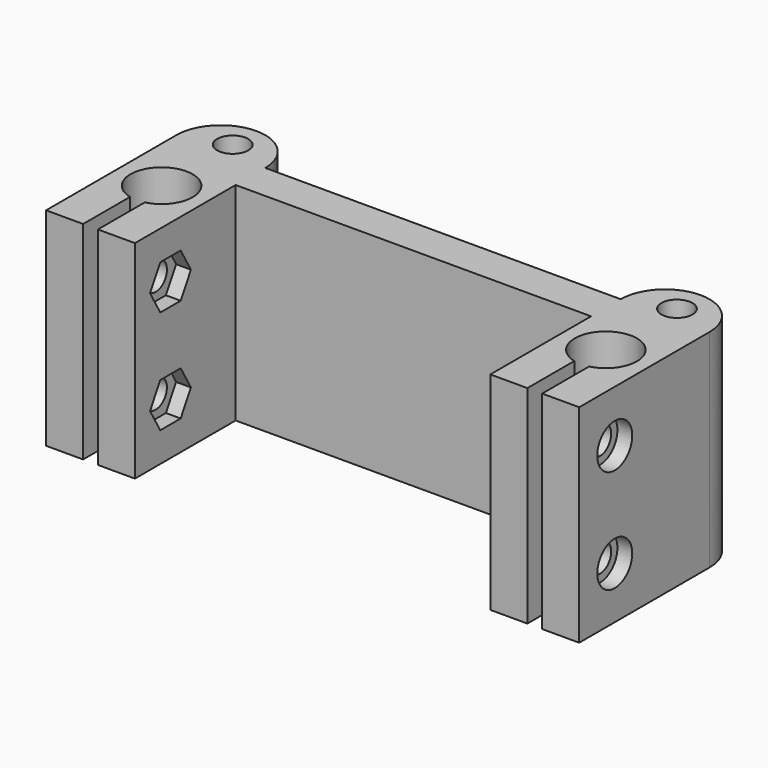
from build123d import *

# Parameters (mm, degrees)
CYLINDER001_R          = 2.1
CYLINDER001_DEPTH      = 30
CYLINDER003_R          = 2.95
CYLINDER003_DEPTH      = 4
CYLINDER002_R          = 1.9
CYLINDER002_DEPTH      = 10
PRISM_DEPTH            = 3
FUSION_ROLL_ANGLE      = -90
FUSION_PITCH_ANGLE     = -60
FUSION_PLACEMENT_ANGLE = 90
CLONE_ROLL_ANGLE       = -3.3e-05
CLONE_PITCH_ANGLE      = -2.6e-05
CLONE_PLACEMENT_ANGLE  = 7e-06
SKETCH001_W            = 2
SKETCH001_H            = 14
PAD001_DEPTH           = 30
CYLINDER_R             = 4.2
CYLINDER_DEPTH         = 30
PAD_DEPTH              = 28


with BuildPart() as top_screw_cut:
    # Cylinder001 → Cylinder001 (new body)
    with BuildSketch(Plane(origin=(-30, 12, -1), x_dir=(1, 0, 0), z_dir=(0, 0, 1))):
        Circle(CYLINDER001_R)
    extrude(amount=CYLINDER001_DEPTH)


with BuildPart() as cylinder001:
    # Cylinder003 → Cylinder003 (new body)
    with BuildSketch(Plane.XY.offset(10)):
        Circle(CYLINDER003_R)
    extrude(amount=CYLINDER003_DEPTH)


with BuildPart() as cylinder:
    # Cylinder002 → Cylinder002 (new body)
    with BuildSketch(Plane.XY):
        Circle(CYLINDER002_R)
    extrude(amount=CYLINDER002_DEPTH)


with BuildPart() as fusion:
    # Prism → Prism (new body)
    with BuildSketch(Plane.XY.offset(-1)):
        Polygon((3.45, 0), (1.725, 2.987788), (-1.725, 2.987788), (-3.45, 0), (-1.725, -2.987788), (1.725, -2.987788), align=None)
    extrude(amount=PRISM_DEPTH)

    # Fusion: union Cylinder001, Cylinder
    add(cylinder001.part)
    add(cylinder.part)


with BuildPart() as fusion_1:
    # Fusion roll: moved
    add(fusion.part.rotate(Axis((0, 0, 0), (1, 0, 0)), FUSION_ROLL_ANGLE))


with BuildPart() as fusion_2:
    # Fusion pitch: moved
    add(fusion_1.part.rotate(Axis((0, 0, 0), (0, 1, 0)), FUSION_PITCH_ANGLE))


with BuildPart() as fusion_3:
    # Fusion placement: moved
    add(fusion_2.part.moved(Location((-24, -6, 7))).rotate(Axis((-24, -6, 7), (0, 0, 1)), FUSION_PLACEMENT_ANGLE))


with BuildPart() as clamps_screw_cut:
    # Clone base: copy of Fusion
    add(fusion_3.part)


with BuildPart() as clamps_screw_cut_1:
    # Clone roll: moved
    add(clamps_screw_cut.part.rotate(Axis((0, 0, 0), (1, 0, 0)), CLONE_ROLL_ANGLE))


with BuildPart() as clamps_screw_cut_2:
    # Clone pitch: moved
    add(clamps_screw_cut_1.part.rotate(Axis((0, 0, 0), (0, 1, 0)), CLONE_PITCH_ANGLE))


with BuildPart() as clamps_screw_cut_3:
    # Clone placement: moved
    add(clamps_screw_cut_2.part.moved(Location((2e-06, -1e-06, 14.000007))).rotate(Axis((2e-06, -1e-06, 14.000007), (0, 0, 1)), CLONE_PLACEMENT_ANGLE))

    # Fusion001: union Fusion
    add(fusion_3.part)


with BuildPart() as clamps_relief_cut:
    # Sketch001 → Pad001 (new body)
    with BuildSketch(Plane.XY.offset(-1)):
        with Locations((-30, -7)):
            Rectangle(SKETCH001_W, SKETCH001_H)
    extrude(amount=PAD001_DEPTH)


with BuildPart() as fusion002:
    # Cylinder → Cylinder (new body)
    with BuildSketch(Plane(origin=(-30, 0, -1), x_dir=(1, 0, 0), z_dir=(0, 0, 1))):
        Circle(CYLINDER_R)
    extrude(amount=CYLINDER_DEPTH)

    # Fusion002: union Top_screw_cut, Clamps_Screw_cut, Clamps_Relief_cut
    add(top_screw_cut.part)
    add(clamps_screw_cut_3.part)
    add(clamps_relief_cut.part)


with BuildPart() as cut:
    # Sketch → Pad (new body)
    with BuildSketch(Plane.XY):
        with BuildLine():
            ThreePointArc((-24, 10), (-30, 16), (-36, 10))
            Line((-36, -12), (-36, 10))
            Line((-24, -12), (-36, -12))
            Line((-24, 5), (-24, -12))
            Line((0, 5), (-24, 5))
            Line((0, 10), (0, 5))
            Line((-24, 10), (0, 10))
        make_face()
    extrude(amount=PAD_DEPTH)

    # Cut: cut Fusion002
    add(fusion002.part, mode=Mode.SUBTRACT)


with BuildPart() as fusion003:
    # Part__Mirroring: instance of Cut
    add(cut.part.mirror(Plane(origin=(0, 0, 0), x_dir=(0, -1, 0), z_dir=(1, 0, 0))))

    # Fusion003: union Cut
    add(cut.part)


solid = fusion003.part
